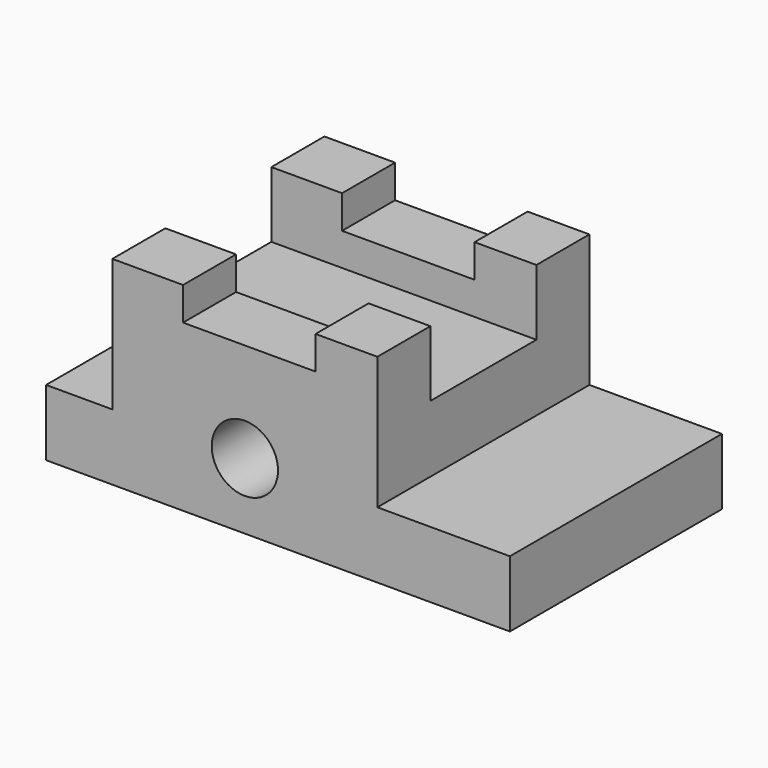
from build123d import *

# Parameters (mm, degrees)
F0_W      = 88.9
F0_H      = 38.1
F1_DEPTH  = 50.8
F2_W      = 12.7
F2_H      = 25.4
F3_DEPTH  = 50.801
F4_W      = 25.4
F4_H      = 25.4
F5_DEPTH  = 50.801
F6_W      = 25.4
F6_H      = 6.35
F7_DEPTH  = 50.801
F8_R      = 6.35
F9_DEPTH  = 50.801
F10_W     = 25.4
F10_H     = 12.7
F11_DEPTH = 63.501


with BuildPart() as f1:
    # F0 (on Front) → F1 (new body)
    with BuildSketch(Plane.XZ):
        Rectangle(F0_W, F0_H)
    extrude(amount=F1_DEPTH)

    # F2 (on face) → F3 (cut, through all)
    with BuildSketch(Plane.XZ.offset(50.8)):
        with Locations((-38.1, 6.35)):
            Rectangle(F2_W, F2_H)
    extrude(amount=-F3_DEPTH, mode=Mode.SUBTRACT)

    # F4 (on face) → F5 (cut, through all)
    with BuildSketch(Plane.XZ.offset(50.8)):
        with Locations((31.75, 6.35)):
            Rectangle(F4_W, F4_H)
    extrude(amount=-F5_DEPTH, mode=Mode.SUBTRACT)

    # F6 (on face) → F7 (cut, through all)
    with BuildSketch(Plane.XZ.offset(50.8)):
        with Locations((-5.497764, 15.875)):
            Rectangle(F6_W, F6_H)
    extrude(amount=-F7_DEPTH, mode=Mode.SUBTRACT)

    # F8 (on face) → F9 (cut, through all)
    with BuildSketch(Plane.XZ.offset(50.8)):
        with Locations((-6.35, -6.35)):
            Circle(F8_R)
    extrude(amount=-F9_DEPTH, mode=Mode.SUBTRACT)

    # F10 (on face) → F11 (cut, through all)
    with BuildSketch(Plane.YZ.offset(19.05)):
        with Locations((-25.4, 12.783553)):
            Rectangle(F10_W, F10_H)
    extrude(amount=-F11_DEPTH, mode=Mode.SUBTRACT)


solid = f1.part
